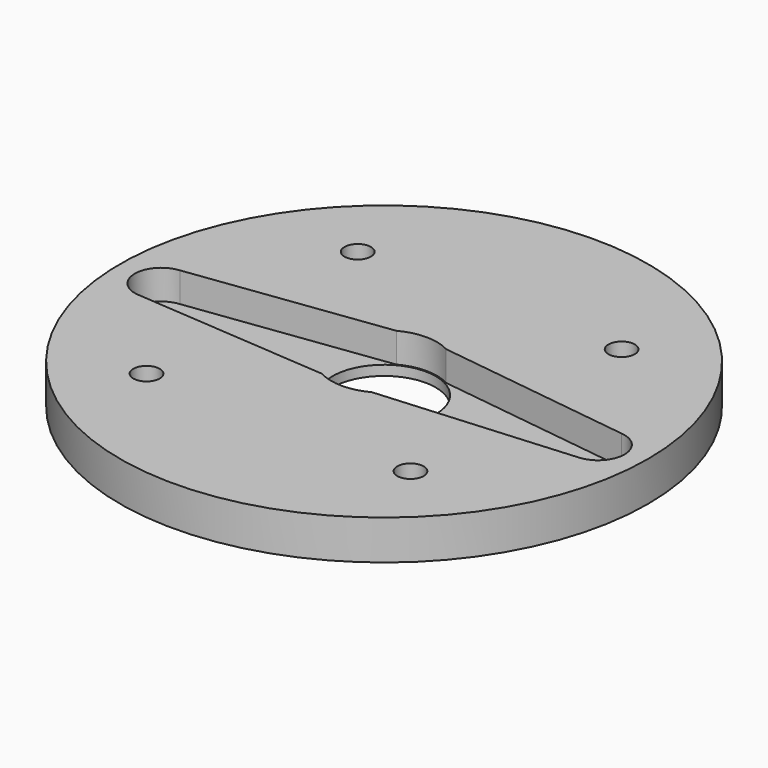
from build123d import *

# Parameters (mm, degrees)
SKETCH_R        = 20
PAD_DEPTH       = 3
POCKET_DEPTH    = 2.25
SKETCH002_R     = 3.907938
POCKET001_DEPTH = 2
SKETCH004_R     = 1
POCKET004_DEPTH = 5


with BuildPart() as part:
    # Sketch → Pad (new body)
    with BuildSketch(Plane.XY):
        Circle(SKETCH_R)
    extrude(amount=PAD_DEPTH)

    # Sketch001 (on Face3 of Pad) → Pocket (cut)
    with BuildSketch(Plane.XY.offset(3)):
        with BuildLine():
            ThreePointArc((1.890302, 3.525161), (0, 4.000122), (-1.890302, 3.525161))
            Line((-16.713594, 1.572988), (-1.890302, 3.525161))
            ThreePointArc((-16.713594, 1.572988), (-18.55, -0.42031), (-16.713594, -2.413609))
            Line((-16.713594, -2.413609), (-1.890302, -3.525161))
            ThreePointArc((-1.890302, -3.525161), (0, -3.996936), (1.890302, -3.525161))
            Line((1.890302, -3.525161), (16.713789, -2.411491))
            ThreePointArc((16.713789, -2.411491), (18.55, -0.418209), (16.713789, 1.575073))
            Line((1.890302, 3.525161), (16.713789, 1.575073))
        make_face()
    extrude(amount=-POCKET_DEPTH, mode=Mode.SUBTRACT)

    # Sketch002 (on Face12 of Pocket) → Pocket001 (cut)
    with BuildSketch(Plane.XY.offset(0.75)):
        Circle(SKETCH002_R)
    extrude(amount=-POCKET001_DEPTH, mode=Mode.SUBTRACT)

    # Sketch004 (on Face3 of Pocket001) → Pocket004 (cut)
    with BuildSketch(Plane.XY.offset(3)):
        with Locations((-10, 10)):
            Circle(SKETCH004_R)
        with Locations((10, 10)):
            Circle(SKETCH004_R)
        with Locations((10, -10)):
            Circle(SKETCH004_R)
        with Locations((-10, -10)):
            Circle(SKETCH004_R)
    extrude(amount=-POCKET004_DEPTH, mode=Mode.SUBTRACT)


solid = part.part
